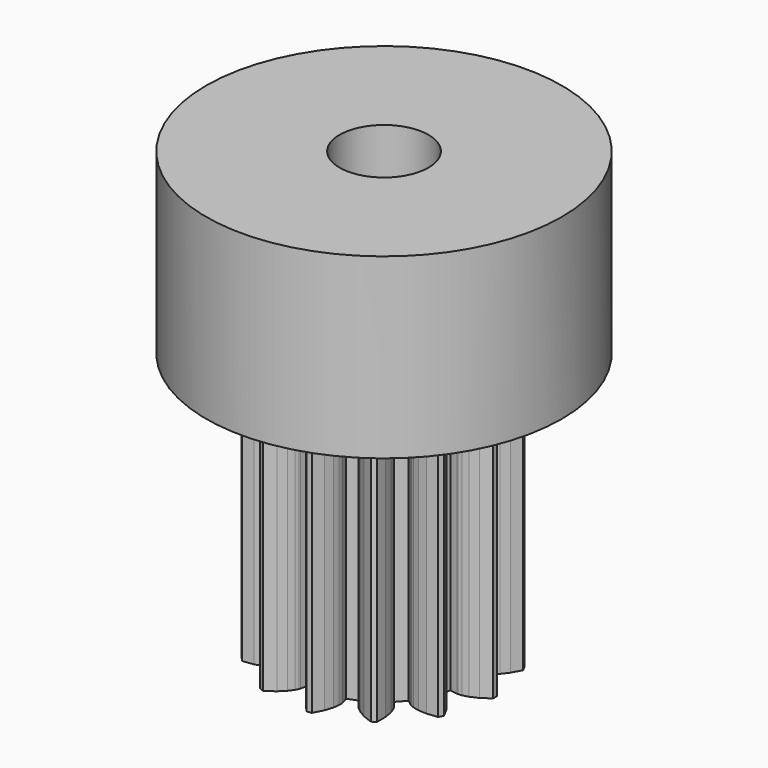
from build123d import *

# Parameters (mm, degrees)
CYLINDER005_R          = 2.5
CYLINDER005_DEPTH      = 27
CYLINDER004_R          = 10
CYLINDER004_DEPTH      = 10
LINEAREXTRUDE003_DEPTH = 15


with BuildPart() as cylinder005:
    # cylinder005 → cylinder005 (new body)
    with BuildSketch(Plane.XY.offset(-1)):
        Circle(CYLINDER005_R)
    extrude(amount=CYLINDER005_DEPTH)


with BuildPart() as cylinder004:
    # cylinder004 → cylinder004 (new body)
    with BuildSketch(Plane.XY.offset(15)):
        Circle(CYLINDER004_R)
    extrude(amount=CYLINDER004_DEPTH)


with BuildPart() as pinion:
    # union004 → LinearExtrude003 (new body)
    with BuildSketch(Plane(origin=(0, 0, 0), x_dir=(0, 1, 0), z_dir=(0, 0, 1))):
        Polygon((0.711931, -4.306123), (1.370771, -4.143733), (1.502069, -4.540636), (1.530367, -4.602072), (1.641751, -4.771632), (1.871155, -5.020002), (2.245545, -5.309618), (2.782207, -5.596589), (3.025427, -5.468937), (3.094113, -4.864255), (3.068442, -4.391617), (2.994354, -4.061731), (2.918082, -3.873743), (2.883597, -3.815555), (2.631538, -3.482032), (3.139447, -3.032064), (3.440155, -3.322487), (3.493763, -3.363735), (3.671187, -3.46211), (3.989737, -3.575421), (4.455834, -3.657875), (5.064387, -3.662577), (5.220426, -3.436516), (5.000234, -2.869177), (4.757857, -2.462607), (4.53895, -2.204938), (4.384052, -2.073928), (4.326475, -2.038431), (3.948292, -1.860249), (4.188912, -1.225786), (4.590143, -1.343197), (4.656779, -1.354807), (4.859597, -1.359461), (5.194318, -1.311756), (5.645345, -1.168159), (6.186377, -0.889514), (6.219486, -0.616832), (5.76086, -0.216806), (5.357304, 0.030555), (5.043726, 0.156979), (4.845688, 0.200998), (4.77821, 0.205671), (4.36054, 0.187693), (4.278749, 0.861305), (4.688584, 0.943805), (4.752983, 0.964491), (4.934732, 1.054624), (5.208943, 1.252418), (5.541575, 1.58917), (5.891142, 2.087328), (5.793738, 2.344162), (5.201743, 2.485233), (4.729457, 2.516719), (4.393046, 2.482935), (4.197235, 2.429879), (4.135314, 2.402658), (3.773841, 2.192639), (3.388376, 2.751081), (3.712928, 3.01459), (3.760337, 3.062835), (3.879381, 3.227107), (4.030263, 3.529677), (4.168298, 3.982437), (4.246318, 4.585986), (4.040715, 4.768136), (3.45097, 4.617935), (3.018149, 4.426332), (2.735972, 4.240079), (2.587247, 4.102103), (2.545069, 4.049224), (2.322601, 3.695276), (1.721767, 4.010618), (1.886685, 4.394771), (1.906243, 4.459522), (1.93531, 4.6603), (1.928298, 4.99833), (1.840114, 5.463378), (1.628715, 6.034052), (1.362012, 6.099788), (0.909622, 5.692724), (0.61542, 5.321926), (0.452121, 5.025874), (0.384552, 4.834585), (0.371779, 4.768162), (0.339281, 4.351371), (-0.339281, 4.351371), (-0.371779, 4.768162), (-0.384552, 4.834585), (-0.452121, 5.025874), (-0.61542, 5.321926), (-0.909622, 5.692724), (-1.362012, 6.099788), (-1.628715, 6.034052), (-1.840114, 5.463378), (-1.928298, 4.99833), (-1.93531, 4.6603), (-1.906243, 4.459522), (-1.886685, 4.394771), (-1.721767, 4.010618), (-2.322601, 3.695276), (-2.545069, 4.049224), (-2.587247, 4.102103), (-2.735972, 4.240079), (-3.018149, 4.426332), (-3.45097, 4.617935), (-4.040715, 4.768136), (-4.246318, 4.585986), (-4.168298, 3.982437), (-4.030263, 3.529677), (-3.879381, 3.227107), (-3.760337, 3.062835), (-3.712928, 3.01459), (-3.388376, 2.751081), (-3.773841, 2.192638), (-4.135314, 2.402658), (-4.197235, 2.429879), (-4.393046, 2.482935), (-4.729457, 2.516719), (-5.201743, 2.485233), (-5.793738, 2.344162), (-5.891142, 2.087328), (-5.541575, 1.58917), (-5.208943, 1.252418), (-4.934732, 1.054624), (-4.752983, 0.964491), (-4.688584, 0.943805), (-4.278749, 0.861305), (-4.36054, 0.187693), (-4.77821, 0.205671), (-4.845688, 0.200998), (-5.043726, 0.156979), (-5.357304, 0.030555), (-5.76086, -0.216806), (-6.219486, -0.616832), (-6.186377, -0.889514), (-5.645345, -1.168159), (-5.194318, -1.311756), (-4.859597, -1.359461), (-4.656779, -1.354807), (-4.590143, -1.343197), (-4.188912, -1.225786), (-3.948292, -1.860249), (-4.326475, -2.038431), (-4.384052, -2.073928), (-4.53895, -2.204938), (-4.757857, -2.462607), (-5.000234, -2.869177), (-5.220426, -3.436516), (-5.064387, -3.662577), (-4.455834, -3.657875), (-3.989737, -3.575421), (-3.671187, -3.46211), (-3.493763, -3.363735), (-3.440155, -3.322487), (-3.139447, -3.032064), (-2.631537, -3.482032), (-2.883597, -3.815555), (-2.918082, -3.873743), (-2.994354, -4.061731), (-3.068442, -4.391617), (-3.094113, -4.864255), (-3.025427, -5.468937), (-2.782207, -5.596589), (-2.245545, -5.309618), (-1.871155, -5.020002), (-1.641751, -4.771632), (-1.530367, -4.602072), (-1.502069, -4.540636), (-1.370771, -4.143733), (-0.71193, -4.306122), (-0.780122, -4.71858), (-0.783616, -4.78613), (-0.763789, -4.98803), (-0.676085, -5.31456), (-0.47917, -5.74499), (-0.137342, -6.24849), (0.137342, -6.24849), (0.47917, -5.74499), (0.676085, -5.31456), (0.763789, -4.98803), (0.783616, -4.78613), (0.780122, -4.71858), align=None)
    extrude(amount=LINEAREXTRUDE003_DEPTH)

    # union005: union cylinder004
    add(cylinder004.part)

    # difference004: cut cylinder005
    add(cylinder005.part, mode=Mode.SUBTRACT)


solid = pinion.part
